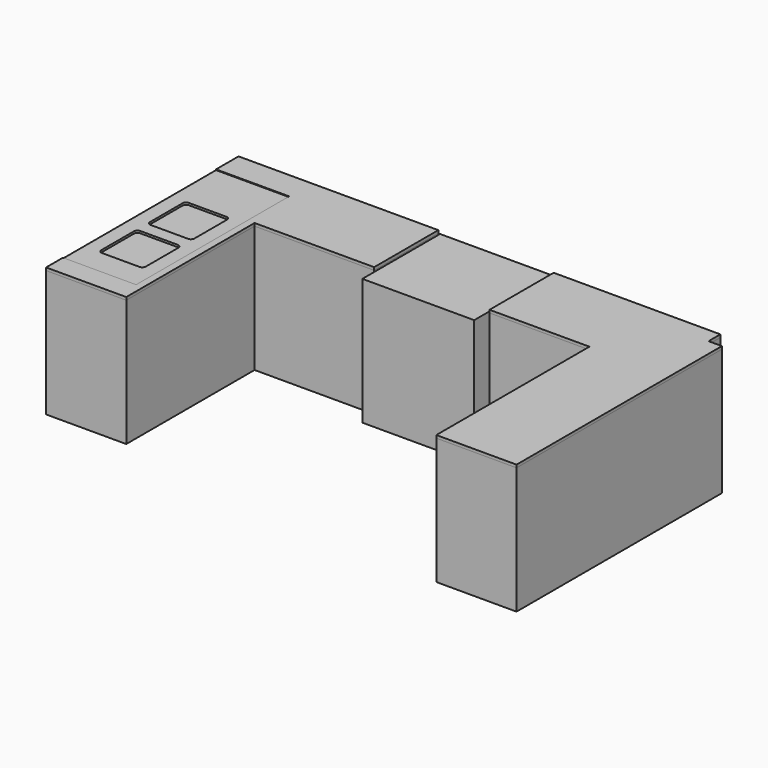
from build123d import *

# Parameters (mm, degrees)
F1_DEPTH  = 900
F2_DEPTH  = 900
F0_W      = 795
F0_H      = 690.5479426876
F3_DEPTH  = 20
F4_W      = 316.465139389
F4_H      = 339.9070054293
F5_DEPTH  = 20
F4_W_2    = 520
F4_H_2    = 1360
F6_DEPTH  = 5
F7_R      = 25
F8_DEPTH  = 900.001
F9_W      = 450
F9_H      = 900
F9_W_2    = 345
F10_DEPTH = 20


with BuildPart() as f1:
    # F0 (on Top) → F1 (new body)
    with BuildSketch(Plane.XY):
        Polygon((-1763.9867460728, 1100.0786612551), (-1763.9867460728, -609.9213387449), (-1193.9867460728, -609.9213387449), (-1193.9867460728, 530.0786612551), (-343.9867460728, 530.0786612551), (-343.9867460728, 1100.0786612551), align=None)
    extrude(amount=F1_DEPTH)


with BuildPart() as f1b:
    # F0 (on Top) → F1, piece 2 (new body)
    with BuildSketch(Plane.XY):
        Polygon((1661.0132539272, 1100.0786612551), (476.0132539272, 1100.0786612551), (476.0132539272, 530.0786612551), (1186.0132539272, 530.0786612551), (1186.0132539272, -829.9213387449), (1756.0132539272, -829.9213387449), (1756.0132539272, 995.0786612551), (1661.0132539272, 995.0786612551), align=None)
    extrude(amount=F1_DEPTH)


with BuildPart() as f2:
    # F0 (on Top) → F2 (new body)
    with BuildSketch(Plane.XY):
        Polygon((-1763.9867460728, 1100.0786612551), (-1763.9867460728, -609.9213387449), (-1193.9867460728, -609.9213387449), (-1193.9867460728, 530.0786612551), (-343.9867460728, 530.0786612551), (-343.9867460728, 1100.0786612551), align=None)
    extrude(amount=F2_DEPTH)

    # F8 (cut, through all): a face of the model
    f8_faces = [f2.faces().sort_by_distance(p)[0] for p in [
        (-1243.2445585728, 434.3364737551, 900),
    ]]
    extrude(f8_faces, amount=-F8_DEPTH, mode=Mode.SUBTRACT)


with BuildPart() as f2b:
    # F0 (on Top) → F2, piece 2 (new body)
    with BuildSketch(Plane.XY):
        Polygon((1661.0132539272, 1100.0786612551), (476.0132539272, 1100.0786612551), (476.0132539272, 530.0786612551), (1186.0132539272, 530.0786612551), (1186.0132539272, -829.9213387449), (1756.0132539272, -829.9213387449), (1756.0132539272, 995.0786612551), (1661.0132539272, 995.0786612551), align=None)
    extrude(amount=F2_DEPTH)

    # F9 (on face) → F10 (cut)
    with BuildSketch(Plane(origin=(1186.0132539272, 0, 0), x_dir=(0, -1, 0), z_dir=(-1, 0, 0))):
        with Locations((584.9213387449, 450)):
            Rectangle(F9_W, F9_H)
        with Locations((-12.5786612551, 450)):
            Rectangle(F9_W_2, F9_H)
    extrude(amount=-F10_DEPTH, mode=Mode.SUBTRACT)


with BuildPart() as f2c:
    # F0 (on Top) → F2, piece 3 (new body)
    with BuildSketch(Plane.XY):
        with Locations((66.0132539272, 754.8046899113)):
            Rectangle(F0_W, F0_H)
    extrude(amount=F2_DEPTH)


with BuildPart() as f3:
    # F3 (new): a face of the model
    f3_faces = [f1.part.faces().sort_by_distance(p)[0] for p in [
        (-1243.2445585728, 434.3364737551, 900),
    ]]
    extrude(f3_faces, amount=F3_DEPTH)

    # F4 (on face) → F5 (cut, through all)
    with BuildSketch(Plane.XY.offset(920)):
        with Locations((-1502.3123025894, -103.5259887576)):
            Rectangle(F4_W, F4_H)
        with Locations((-1502.3123025894, 328.4740373492)):
            Rectangle(F4_W, F4_H)
    extrude(amount=-F5_DEPTH, mode=Mode.SUBTRACT)

    # F4 (on face) → F6 (cut)
    with BuildSketch(Plane.XY.offset(920)):
        with Locations((-1503.9867460728, 220.0786612551)):
            Rectangle(F4_W_2, F4_H_2)
        with Locations((-1502.3123025894, -103.5259887576)):
            Rectangle(F4_W, F4_H, mode=Mode.SUBTRACT)
        with Locations((-1502.3123025894, 328.4740373492)):
            Rectangle(F4_W, F4_H, mode=Mode.SUBTRACT)
    extrude(amount=-F6_DEPTH, mode=Mode.SUBTRACT)

    # F7
    f7_edges = [f3.edges().sort_by_distance(p)[0] for p in [
        (-1344.079733, 158.520535, 907.5),
        (-1344.079733, -273.479491, 907.5),
        (-1660.544872, -273.479491, 907.5),
        (-1660.544872, 158.520535, 907.5),
        (-1660.544872, 66.427514, 907.5),
        (-1660.544872, 498.42754, 907.5),
        (-1344.079733, 498.42754, 907.5),
        (-1344.079733, 66.427514, 907.5),
    ]]
    fillet(f7_edges, radius=F7_R)


with BuildPart() as f3b:
    # F3#2 (new): a face of the model
    f3_2_faces = [f1b.part.faces().sort_by_distance(p)[0] for p in [
        (1296.1586304763, 313.088670788, 900),
    ]]
    extrude(f3_2_faces, amount=F3_DEPTH)


solid = Compound([f1.part, f1b.part, f2b.part, f2c.part, f3.part, f3b.part])
